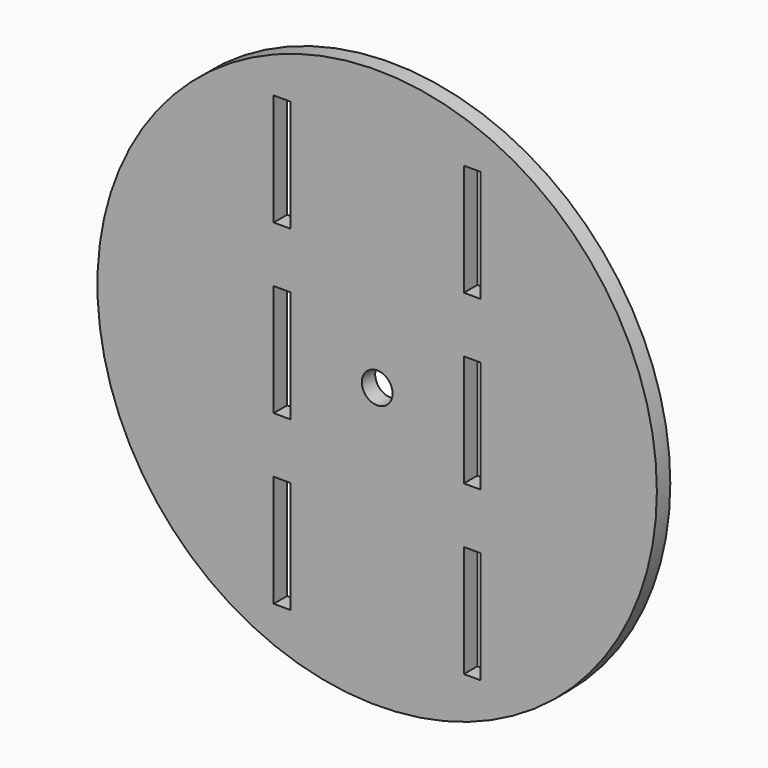
from build123d import *

# Parameters (mm, degrees)
F0_R     = 50
F0_W     = 3
F0_H     = 20
F0_R_2   = 2.75
F1_DEPTH = 3


with BuildPart() as f1:
    # F0 (on Front) → F1 (new body)
    with BuildSketch(Plane.XZ):
        Circle(F0_R)
        with Locations((-17, -30)):
            Rectangle(F0_W, F0_H, mode=Mode.SUBTRACT)
        with Locations((17, -30)):
            Rectangle(F0_W, F0_H, mode=Mode.SUBTRACT)
        with Locations((-17, 0)):
            Rectangle(F0_W, F0_H, mode=Mode.SUBTRACT)
        with Locations((-17, 30)):
            Rectangle(F0_W, F0_H, mode=Mode.SUBTRACT)
        Circle(F0_R_2, mode=Mode.SUBTRACT)
        with Locations((17, 0)):
            Rectangle(F0_W, F0_H, mode=Mode.SUBTRACT)
        with Locations((17, 30)):
            Rectangle(F0_W, F0_H, mode=Mode.SUBTRACT)
    extrude(amount=F1_DEPTH)


solid = f1.part
